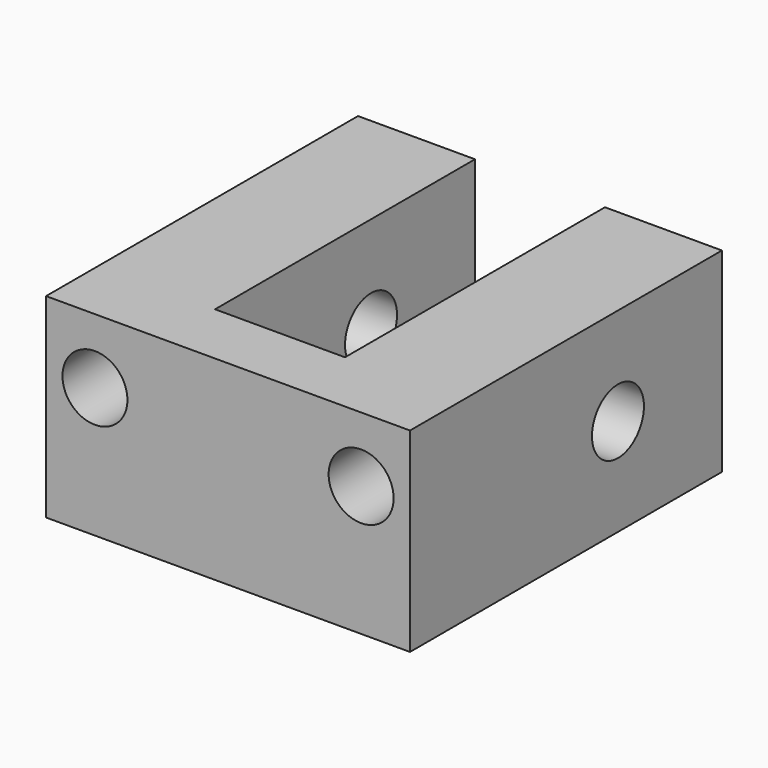
from build123d import *

# Parameters (mm, degrees)
F0_W     = 35.56
F0_H     = 38.1
F1_DEPTH = 19.05
F2_W     = 12.7
F2_H     = 31.75
F3_DEPTH = 19.05
F4_R     = 3.175
F5_DEPTH = 12.7
F6_R     = 3.175
F7_DEPTH = 508


with BuildPart() as f1:
    # F0 (on Top) → F1 (new body)
    with BuildSketch(Plane.XY):
        with Locations((17.78, 19.05)):
            Rectangle(F0_W, F0_H)
    extrude(amount=F1_DEPTH)

    # F2 (on face) → F3 (cut)
    with BuildSketch(Plane.XY.offset(19.05)):
        with Locations((17.78, 22.225)):
            Rectangle(F2_W, F2_H)
    extrude(amount=-F3_DEPTH, mode=Mode.SUBTRACT)

    # F4 (on face) → F5 (cut)
    with BuildSketch(Plane.XZ):
        with Locations((4.7752, 12.7)):
            Circle(F4_R)
        with Locations((30.7848, 12.7)):
            Circle(F4_R)
    extrude(amount=-F5_DEPTH, mode=Mode.SUBTRACT)

    # F6 (on face) → F7 (cut)
    with BuildSketch(Plane.YZ.offset(35.56)):
        with Locations((25.4, 9.525)):
            Circle(F6_R)
    extrude(amount=-F7_DEPTH, mode=Mode.SUBTRACT)


solid = f1.part
